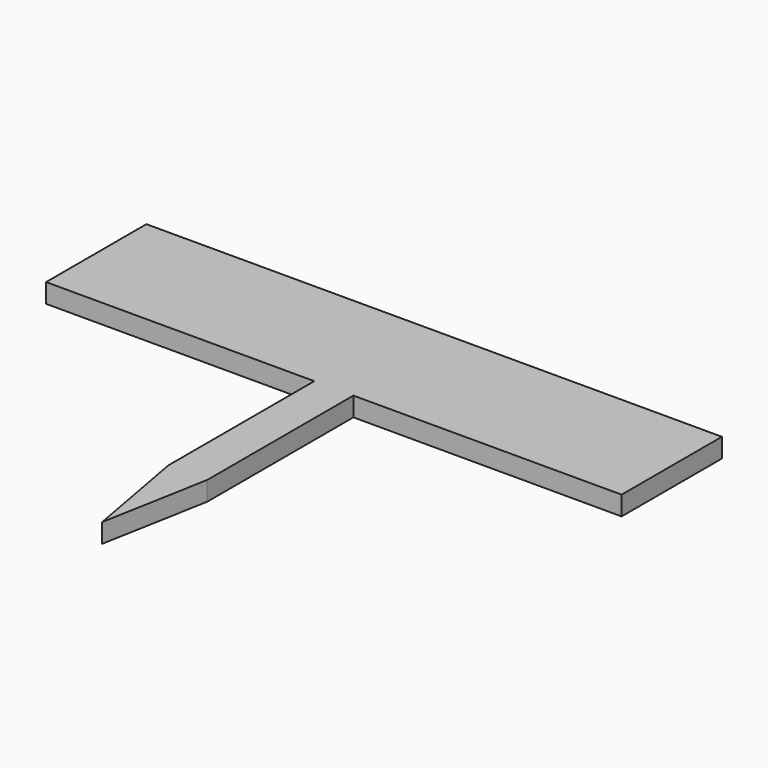
from build123d import *

# Parameters (mm, degrees)
PAD_DEPTH = 5


with BuildPart() as part:
    # Sketch → Pad (new body)
    with BuildSketch(Plane.XY):
        Polygon((-75, 16.342344), (75, 16.342344), (75, -16.342344), (5.095934, -16.342344), (5.095934, -63.954086), (0, -91.810478), (-5.095934, -63.954086), (-5.095934, -16.342344), (-75, -16.342344), align=None)
    extrude(amount=PAD_DEPTH)


solid = part.part
